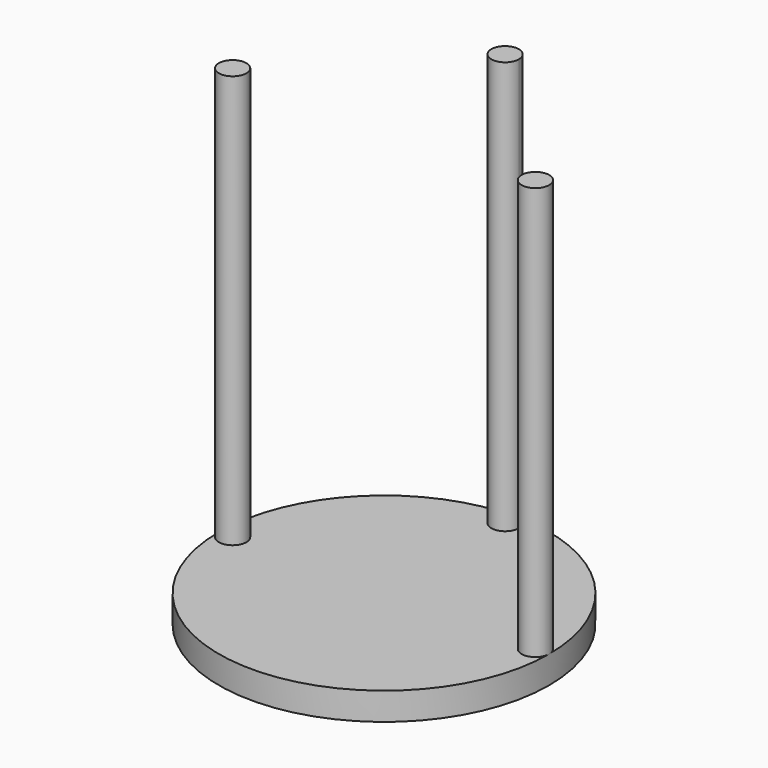
from build123d import *

# Parameters (mm, degrees)
F0_R     = 76.2
F1_DEPTH = 12.7
F2_R     = 6.35
F3_DEPTH = 190.5


with BuildPart() as f1:
    # F0 (on Top) → F1 (new body)
    with BuildSketch(Plane.XY):
        Circle(F0_R)
    extrude(amount=F1_DEPTH)

    # F2 (on face) → F3 (join)
    with BuildSketch(Plane.XY.offset(12.7)):
        with BuildLine():
            ThreePointArc((-63.5, 0), (-69.85, 6.35), (-76.2, 0))
            ThreePointArc((-76.2, 0), (-69.85, -6.35), (-63.5, 0))
        make_face()
        with BuildLine():
            ThreePointArc((0, 76.2), (-4.490128, 65.359872), (6.35, 69.85))
            ThreePointArc((6.35, 69.85), (4.490128, 74.340128), (0, 76.2))
        make_face()
        with Locations((69.85, 0)):
            Circle(F2_R)
    extrude(amount=F3_DEPTH)


solid = f1.part
